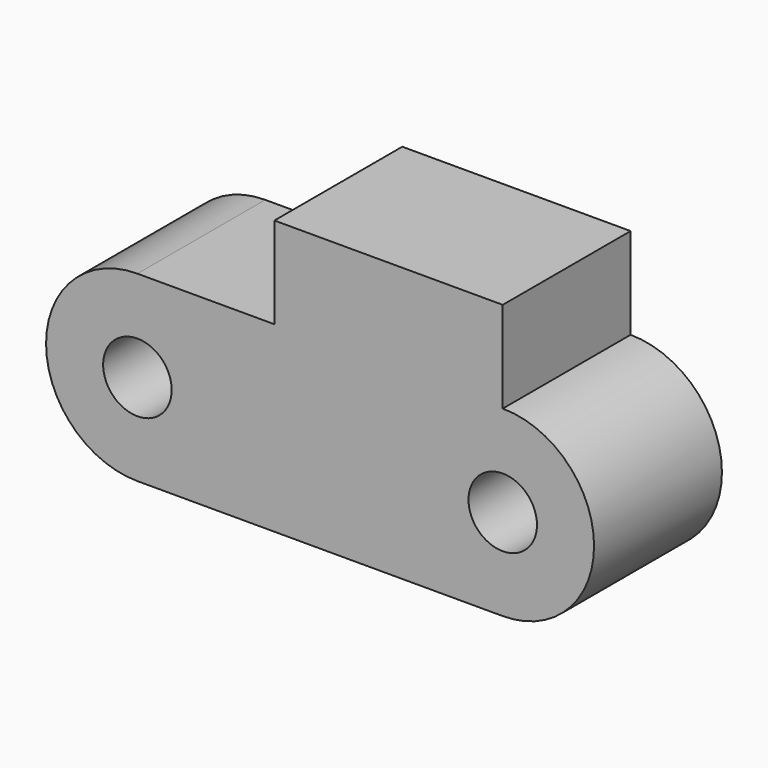
from build123d import *

# Parameters (mm, degrees)
F0_R     = 3
F1_DEPTH = 14


with BuildPart() as f1:
    # F0 (on Front) → F1 (new body)
    with BuildSketch(Plane.XZ):
        with BuildLine():
            Line((-20, 8), (-32, 8))
            ThreePointArc((-32, 8), (-40, 0), (-32, -8))
            Line((-32, -8), (0, -8))
            ThreePointArc((0, -8), (8, 0), (0, 8))
            Line((0, 8), (0, 16))
            Line((0, 16), (-20, 16))
            Line((-20, 16), (-20, 8))
        make_face()
        with Locations((-32, 0)):
            Circle(F0_R, mode=Mode.SUBTRACT)
        Circle(F0_R, mode=Mode.SUBTRACT)
    extrude(amount=F1_DEPTH)


solid = f1.part
